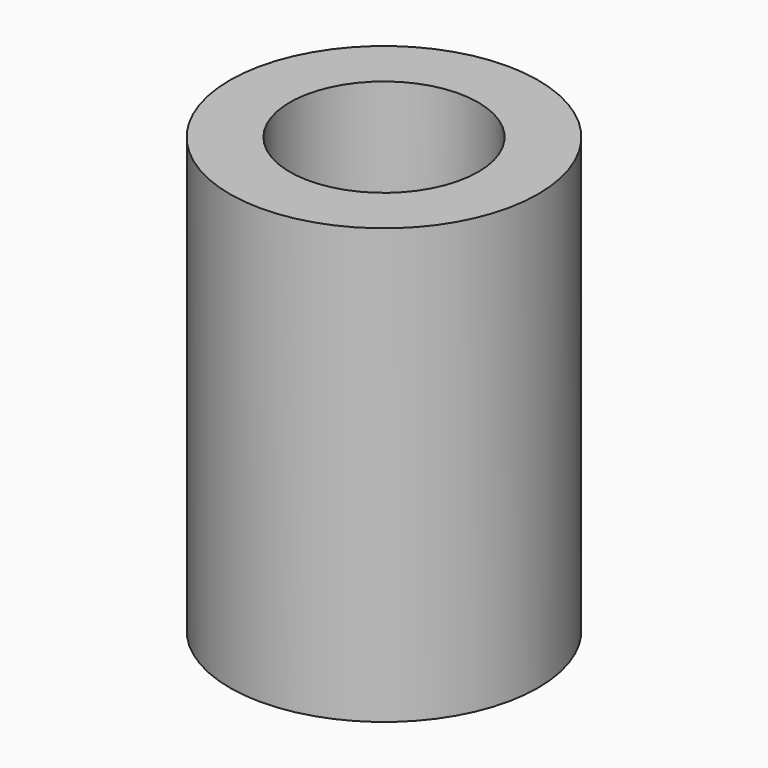
from build123d import *

# Parameters (mm, degrees)
F0_R     = 31.9348574098
F1_DEPTH = 127
F2_T     = 20.32


with BuildPart() as f1:
    # F0 (on Top) → F1 (new body)
    with BuildSketch(Plane.XY):
        Circle(F0_R)
    extrude(amount=F1_DEPTH)

    # F2
    f2_openings = [f1.faces().sort_by_distance(p)[0] for p in [
        (0, 0, 127),
    ]]
    offset(amount=F2_T, openings=f2_openings, kind=Kind.INTERSECTION)


solid = f1.part
